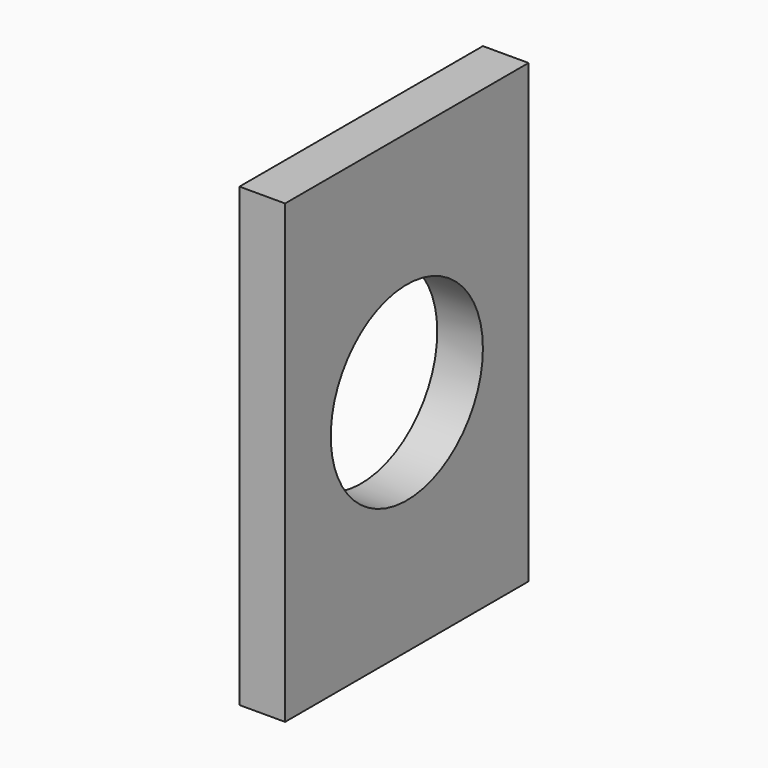
from build123d import *

# Parameters (mm, degrees)
F0_W     = 40
F0_H     = 60
F1_DEPTH = 6
F2_R     = 12.5
F3_DEPTH = 25


with BuildPart() as f1:
    # F0 (on Right) → F1 (new body)
    with BuildSketch(Plane.YZ):
        Rectangle(F0_W, F0_H)
    extrude(amount=F1_DEPTH)

    # F2 (on face) → F3 (cut)
    with BuildSketch(Plane.YZ.offset(6)):
        Circle(F2_R)
    extrude(amount=-F3_DEPTH, mode=Mode.SUBTRACT)


solid = f1.part
